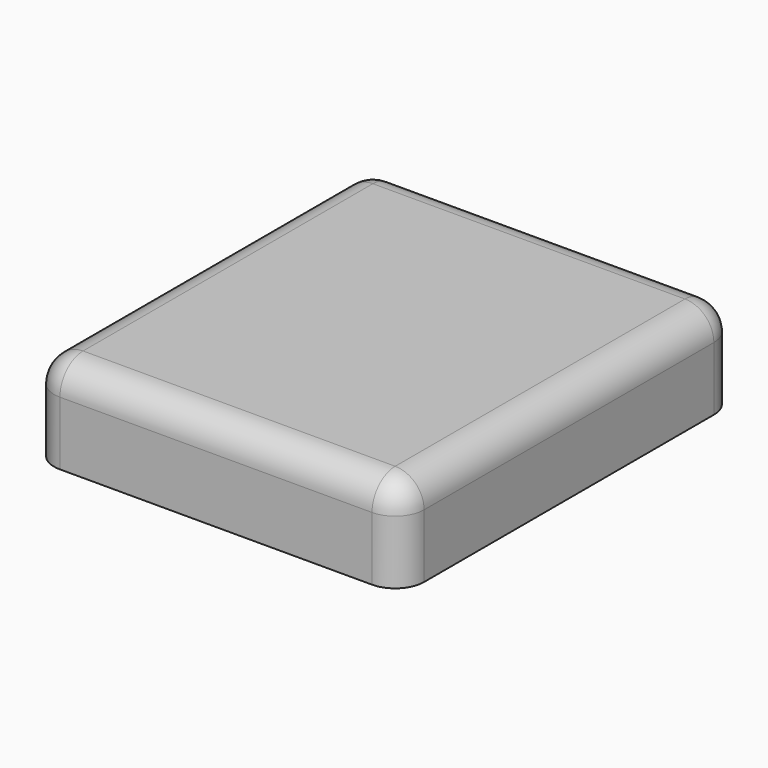
from build123d import *

# Parameters (mm, degrees)
PAD004_DEPTH  = 3
PAD003_DEPTH  = 45
FILLET003_R   = 15
FILLET004_R   = 15
BOX006_W      = 192
BOX006_H      = 218
BOX006_DEPTH  = 48
FILLET005_1_R = 15
FILLET005_2_R = 1
PAD007_DEPTH  = 100
PAD005_DEPTH  = 150
CHAMFER_SIZE  = 1.9


with BuildPart() as leftstand:
    # Sketch004 → Pad004 (new body)
    with BuildSketch(Plane.YZ):
        with BuildLine():
            Line((88, 4), (88, 21))
            Line((88, 21), (3, 21))
            Line((3, 21), (3, 0))
            Line((3, 0), (25, 0))
            ThreePointArc((88, 4), (56.461494, 2.606473), (25, 0))
        make_face()
    extrude(amount=PAD004_DEPTH)


with BuildPart() as leftstand_1:
    # Body004 placement: moved
    add(leftstand.part.moved(Location((40, 0, 106))))


with BuildPart() as fusion002:
    # Body005 base: copy of LeftStand
    add(leftstand_1.part)


with BuildPart() as fusion002_1:
    # Body005 placement: moved
    add(fusion002.part.moved(Location((108, 0, 0))))

    # Fusion002: union LeftStand
    add(leftstand_1.part)


with BuildPart() as fillet004:
    # Sketch003 → Pad003 (new body)
    with BuildSketch(Plane.XY):
        with BuildLine():
            Line((18, 0), (168, 0))
            Line((168, 0), (168, 5))
            ThreePointArc((168, 5), (180.727922, 10.272078), (186, 23))
            Line((186, 192), (186, 23))
            ThreePointArc((186, 192), (180.727922, 204.727922), (168, 210))
            Line((18, 210), (168, 210))
            ThreePointArc((18, 210), (5.272078, 204.727922), (0, 192))
            Line((0, 192), (0, 23))
            ThreePointArc((0, 23), (5.272078, 10.272078), (18, 5))
            Line((18, 0), (18, 5))
        make_face()
    extrude(amount=PAD003_DEPTH)


with BuildPart() as fillet004_1:
    # Body003 placement: moved
    add(fillet004.part.moved(Location((3, 3, 82))))

    # Cut001: cut Fusion002
    add(fusion002_1.part, mode=Mode.SUBTRACT)

    # Fillet003
    fillet003_edges = [fillet004_1.edges().sort_by_distance(p)[0] for p in [
        (8.272078, 207.727922, 127),
        (96, 213, 127),
        (3, 110.5, 127),
        (183.727922, 207.727922, 127),
        (189, 110.5, 127),
        (183.727922, 13.272078, 127),
        (95.5, 3, 127),
        (8.272078, 13.272078, 127),
    ]]
    fillet(fillet003_edges, radius=FILLET003_R)

    # Fillet004
    fillet004_edges = [fillet004_1.edges().sort_by_distance(p)[0] for p in [
        (161, 3, 127),
        (30.5, 3, 127),
    ]]
    fillet(fillet004_edges, radius=FILLET004_R)


with BuildPart() as fillet005:
    # Box006 → Box006 (new body)
    with BuildSketch(Plane.XY.offset(82)):
        with Locations((96, 109)):
            Rectangle(BOX006_W, BOX006_H)
    extrude(amount=BOX006_DEPTH)

    # Cut002: cut Fillet004
    add(fillet004_1.part, mode=Mode.SUBTRACT)

    # Fillet005 1
    fillet005_1_edges = [fillet005.edges().sort_by_distance(p)[0] for p in [
        (0, 0, 106),
        (0, 109, 130),
        (0, 218, 106),
        (192, 0, 106),
        (96, 0, 130),
        (96, 218, 130),
        (192, 109, 130),
        (192, 218, 106),
    ]]
    fillet(fillet005_1_edges, radius=FILLET005_1_R)

    # Fillet005 2
    fillet005_2_edges = [fillet005.edges().sort_by_distance(p)[0] for p in [
        (171, 8, 97),
        (21, 8, 97),
        (151, 88, 118.5),
        (151, 14, 106),
        (148, 14, 106),
        (148, 88, 118.5),
        (43, 88, 118.5),
        (43, 14, 106),
        (40, 14, 106),
        (40, 88, 118.5),
        (149.5, 88, 110),
        (41.5, 88, 110),
    ]]
    fillet(fillet005_2_edges, radius=FILLET005_2_R)


with BuildPart() as obj1:
    # Sketch007 → Pad007 (new body)
    with BuildSketch(Plane.YZ):
        Polygon((0, 0), (2, 12), (2, 2), (1, 0), align=None)
    extrude(amount=PAD007_DEPTH)


with BuildPart() as obj1_1:
    # Body008 placement: moved
    add(obj1.part.moved(Location((50, 211, 80))))


with BuildPart() as lid:
    # Sketch005 → Pad005 (new body)
    with BuildSketch(Plane.YZ):
        Polygon((0, 12), (0, 2), (1, 0), (2, 0), align=None)
    extrude(amount=PAD005_DEPTH)


with BuildPart() as lid_1:
    # Body006 placement: moved
    add(lid.part.moved(Location((21, 3, 80))))

    # Fusion003: union Fillet005, obj1
    add(fillet005.part)
    add(obj1_1.part)

    # Chamfer
    chamfer_edges = [lid_1.edges().sort_by_distance(p)[0] for p in [
        (21, 4.5, 80),
        (171, 4.5, 80),
        (50, 211.5, 80),
        (150, 211.5, 80),
    ]]
    chamfer(chamfer_edges, length=CHAMFER_SIZE)


solid = lid_1.part
